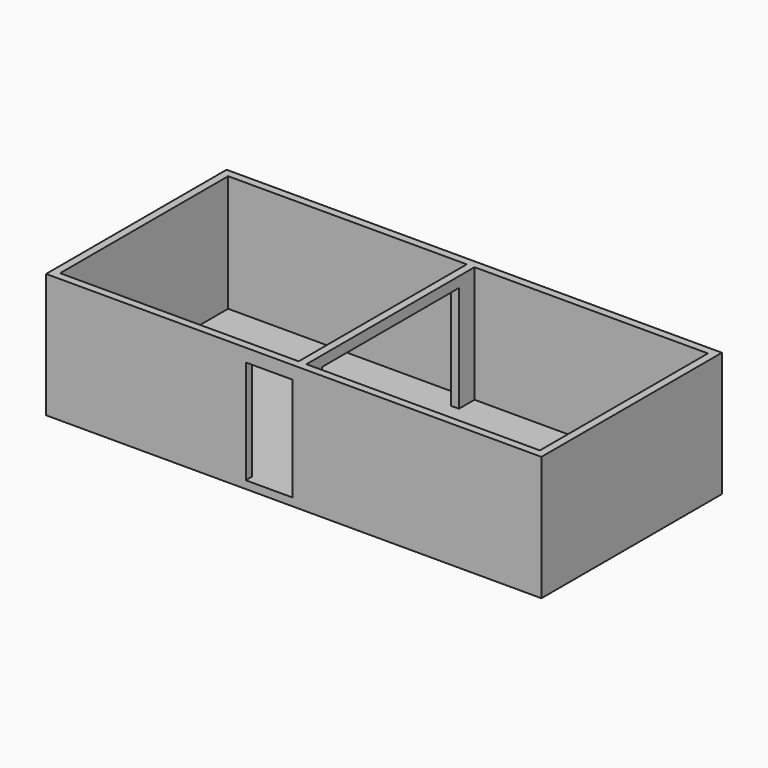
from build123d import *

# Parameters (mm, degrees)
F0_W     = 9702.8
F0_H     = 4419.6
F0_W_2   = 152.4
F0_H_2   = 381
F1_DEPTH = 2286
F2_W     = 9702.8
F2_H     = 4419.6
F3_DEPTH = 152.4
F4_W     = 914.4
F4_H     = 2032
F5_DEPTH = 152.401
F6_W     = 152.4
F6_H     = 3352.8
F7_DEPTH = 203.2


with BuildPart() as f1:
    # F0 (on Top) → F1 (new body)
    with BuildSketch(Plane.XY):
        with Locations((4699, 2057.4)):
            Rectangle(F0_W, F0_H)
        Polygon((4673.6, 0), (0, 0), (0, 4114.8), (4673.6, 4114.8), (4826, 4114.8), (9398, 4114.8), (9398, 0), (4826, 0), align=None, mode=Mode.SUBTRACT)
        with Locations((4749.8, 3924.3)):
            Rectangle(F0_W_2, F0_H_2)
        with Locations((4749.8, 190.5)):
            Rectangle(F0_W_2, F0_H_2)
    extrude(amount=F1_DEPTH)

    # F2 (on face) → F3 (join)
    with BuildSketch(Plane(origin=(0, 0, 0), x_dir=(1, 0, 0), z_dir=(0, 0, -1))):
        with Locations((4699, -2057.4)):
            Rectangle(F2_W, F2_H)
    extrude(amount=F3_DEPTH)

    # F4 (on face) → F5 (cut, through all)
    with BuildSketch(Plane(origin=(0, 0, 0), x_dir=(-1, 0, 0), z_dir=(0, 1, 0))):
        with Locations((-4216.4, 1016)):
            Rectangle(F4_W, F4_H)
    extrude(amount=-F5_DEPTH, mode=Mode.SUBTRACT)

    # F6 (on face) → F7 (join)
    with BuildSketch(Plane.XY.offset(2286)):
        with Locations((4749.8, 2057.4)):
            Rectangle(F6_W, F6_H)
    extrude(amount=-F7_DEPTH)


solid = f1.part
